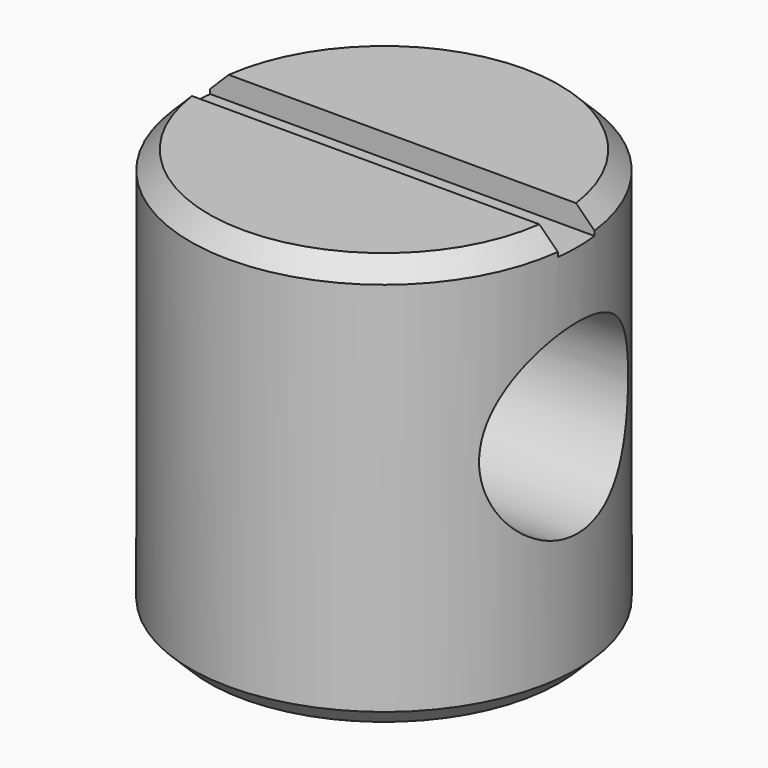
from build123d import *

# Parameters (mm, degrees)
F0_R          = 5.357813
F1_DEPTH      = 11.43
F2_R          = 2.579688
F3_DEPTH      = 25.4
F3_DEPTH_BACK = 25.4
F5_DEPTH      = 0.635
F6_SIZE       = 0.508


with BuildPart() as f1:
    # F0 (on Top) → F1 (new body)
    with BuildSketch(Plane.XY):
        Circle(F0_R)
    extrude(amount=F1_DEPTH)

    # F2 (on Right) → F3 (cut, two sides)
    with BuildSketch(Plane.YZ) as f3_sk:
        with Locations((0, 6.389687)):
            Circle(F2_R)
    extrude(amount=F3_DEPTH, mode=Mode.SUBTRACT)
    extrude(f3_sk.sketch, amount=-F3_DEPTH_BACK, mode=Mode.SUBTRACT)

    # F4 (on face) → F5 (cut)
    with BuildSketch(Plane.XY.offset(11.43)):
        with BuildLine():
            Line((5.32005, 0.635), (-5.32005, 0.635))
            ThreePointArc((-5.32005, 0.635), (-5.379818, 0), (-5.32005, -0.635))
            Line((-5.32005, -0.635), (5.32005, -0.635))
            ThreePointArc((5.32005, -0.635), (5.379818, 0), (5.32005, 0.635))
        make_face()
    extrude(amount=-F5_DEPTH, mode=Mode.SUBTRACT)

    # F6
    f6_edges = [f1.edges().sort_by_distance(p)[0] for p in [
        (0, -5.357813, 11.43),
        (0, 5.357813, 11.43),
        (-5.357813, 0, 0),
    ]]
    chamfer(f6_edges, length=F6_SIZE)


solid = f1.part
